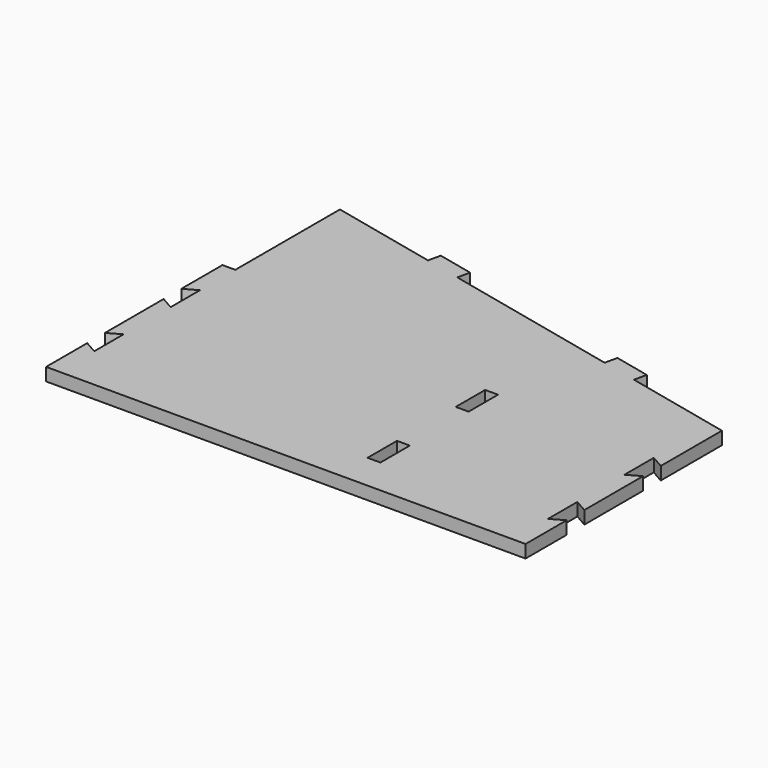
from build123d import *

# Parameters (mm, degrees)
F1_DEPTH = 3.5
F2_W     = 3.5
F2_H     = 10
F3_DEPTH = 3.5


with BuildPart() as f1:
    # F0 (on Top) → F1 (new body)
    with BuildSketch(Plane.XY):
        Polygon((63.617211, -14), (63.617211, 0), (63.617211, 6.802419), (34.359907, 13.436434), (35.133875, 16.849786), (25.38144, 19.061125), (24.607472, 15.647772), (-24.37305, 26.753974), (-23.599082, 30.167326), (-33.351517, 32.378664), (-34.125485, 28.965312), (-63.382789, 35.599327), (-63.382789, 0), (-66.882789, 0), (-66.882789, -14), (-63.382789, -12), (-63.382789, -22), (-66.882789, -20), (-66.882789, -40), (-63.382789, -38), (-63.382789, -48), (-66.882789, -46), (-66.882789, -60), (-63.382789, -60), (60.117211, -60), (63.617211, -60), (63.617211, -46), (60.117211, -48), (60.117211, -38), (63.617211, -40), (63.617211, -20), (60.117211, -22), (60.117211, -12), align=None)
    extrude(amount=F1_DEPTH)

    # F2 (on face) → F3 (cut)
    with BuildSketch(Plane.XY.offset(3.5)):
        with Locations((14.367211, -15)):
            Rectangle(F2_W, F2_H)
        with Locations((14.367211, -45)):
            Rectangle(F2_W, F2_H)
    extrude(amount=-F3_DEPTH, mode=Mode.SUBTRACT)


solid = f1.part
